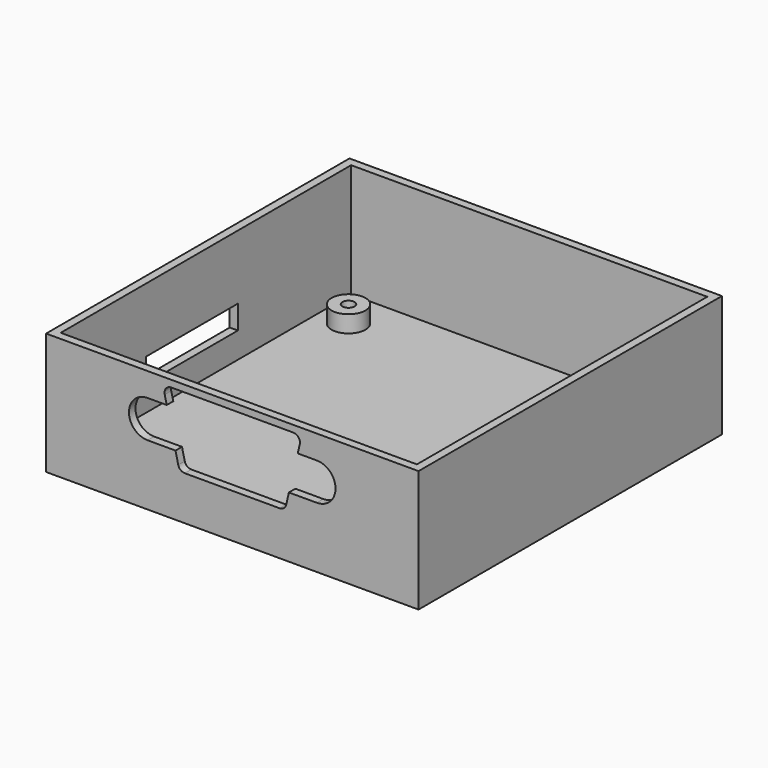
from build123d import *

# Parameters (mm, degrees)
SKETCH_W        = 55
SKETCH_H        = 56
PAD_DEPTH       = 18
SKETCH012_W     = 52.6
SKETCH012_H     = 53.6
POCKET_DEPTH    = 16.8
POCKET001_DEPTH = 1.2
SKETCH014_W     = 17
SKETCH014_H     = 3.5
POCKET002_DEPTH = 1.2
SKETCH015_R     = 2.5
SKETCH015_R_2   = 0.9
PAD010_DEPTH    = 2.5


with BuildPart() as part:
    # Sketch → Pad (new body)
    with BuildSketch(Plane.XY):
        Rectangle(SKETCH_W, SKETCH_H)
    extrude(amount=PAD_DEPTH)

    # Sketch012 (on Face6 of Pad) → Pocket (cut)
    with BuildSketch(Plane.XY.offset(18)):
        Rectangle(SKETCH012_W, SKETCH012_H)
    extrude(amount=-POCKET_DEPTH, mode=Mode.SUBTRACT)

    # Sketch013 (on Face6 of Pocket) → Pocket001 (cut)
    with BuildSketch(Plane.XZ.offset(28)):
        with BuildLine():
            ThreePointArc((12.47, 9.000073), (15.239982, 11.74), (12.49, 14.5))
            Line((9.66, 14.5), (12.49, 14.5))
            Line((9.66, 14.5), (9.962666, 15.767791))
            ThreePointArc((9.962666, 15.767791), (9.774923, 16.619593), (8.99, 17))
            Line((-9.01, 17), (8.99, 17))
            ThreePointArc((-9.01, 17), (-9.794923, 16.619593), (-9.982666, 15.767791))
            Line((-9.68, 14.5), (-9.982666, 15.767791))
            Line((-12.51, 14.5), (-9.68, 14.5))
            ThreePointArc((-12.51, 14.5), (-15.26, 11.75), (-12.51, 9))
            Line((-12.51, 9), (-8.39, 9))
            Line((-7.983449, 7.271094), (-8.39, 9))
            ThreePointArc((-7.983449, 7.271094), (-7.630924, 6.716129), (-7.01, 6.5))
            Line((6.99, 6.5), (-7.01, 6.5))
            ThreePointArc((6.99, 6.5), (7.615236, 6.719564), (7.965913, 7.281839))
            Line((7.965913, 7.281839), (8.35, 9))
            Line((8.35, 9), (12.47, 9.000073))
        make_face()
    extrude(amount=-POCKET001_DEPTH, mode=Mode.SUBTRACT)

    # Sketch014 (on Face2 of Pocket001) → Pocket002 (cut)
    with BuildSketch(Plane(origin=(-27.5, 0, 0), x_dir=(0, -1, 0), z_dir=(-1, 0, 0))):
        with Locations((2.6, 6.75)):
            Rectangle(SKETCH014_W, SKETCH014_H)
    extrude(amount=-POCKET002_DEPTH, mode=Mode.SUBTRACT)

    # Sketch015 (on Face31 of Pocket002) → Pad010 (join)
    with BuildSketch(Plane.XY.offset(1.2)):
        with Locations((22, -23.05)):
            Circle(SKETCH015_R)
        with Locations((22, -23.05)):
            Circle(SKETCH015_R_2, mode=Mode.SUBTRACT)
        with Locations((-22, -23.05)):
            Circle(SKETCH015_R)
        with Locations((-22, -23.05)):
            Circle(SKETCH015_R_2, mode=Mode.SUBTRACT)
        with Locations((22, 20.95)):
            Circle(SKETCH015_R)
        with Locations((22, 20.95)):
            Circle(SKETCH015_R_2, mode=Mode.SUBTRACT)
        with Locations((-22, 20.95)):
            Circle(SKETCH015_R)
        with Locations((-22, 20.95)):
            Circle(SKETCH015_R_2, mode=Mode.SUBTRACT)
    extrude(amount=PAD010_DEPTH)


solid = part.part
